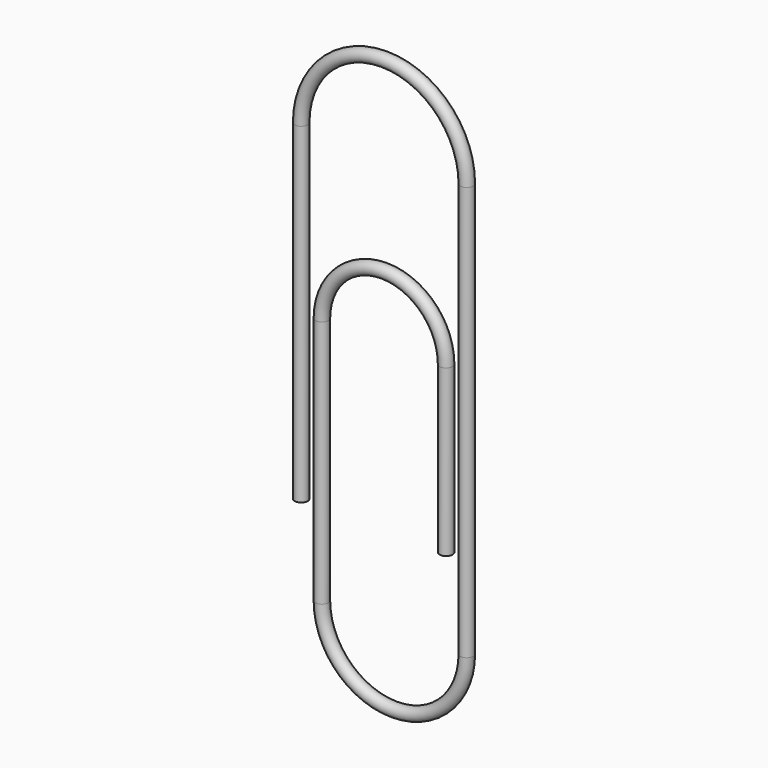
from build123d import *

# Parameters (mm, degrees)
F1_R = 0.496094


with BuildPart() as f2:
    # F2: sweep along a path in F0
    with BuildLine(Plane.XZ) as f2_path:
        Line((-6.35, 0), (-6.35, 25.4))
        ThreePointArc((-6.35, 25.4), (0, 31.75), (6.35, 25.4))
        Line((6.35, 25.4), (6.35, -6.35))
        ThreePointArc((6.35, -6.35), (0.79375, -11.90625), (-4.7625, -6.35))
        Line((-4.7625, -6.35), (-4.7625, 12.7))
        ThreePointArc((-4.7625, 12.7), (0, 17.4625), (4.7625, 12.7))
        Line((4.7625, 12.7), (4.7625, 0))
    # F1 (on Top) → F2 (sweep)
    with BuildSketch(Plane.XY):
        with Locations((-6.35, 0)):
            Circle(F1_R)
    sweep(path=f2_path.line)


solid = f2.part
